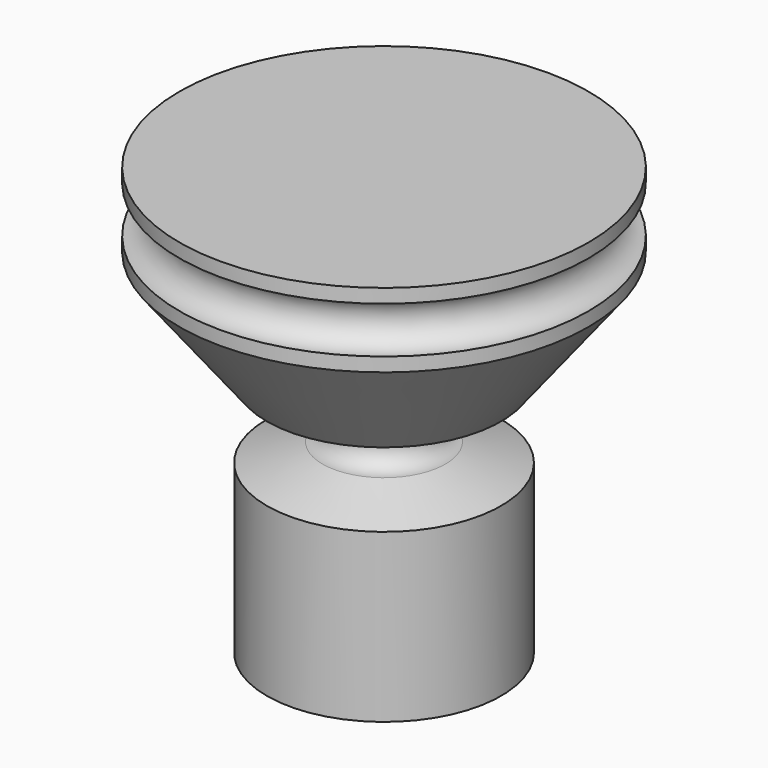
from build123d import *

# Parameters (mm, degrees)
F0_R     = 0.975
F2_DEPTH = 6.6
F3_R     = 0.975
F4_DEPTH = 6.6


with BuildPart() as f1:
    # F0 (on Front) → F1 (revolve)
    with BuildSketch(Plane.XZ):
        with BuildLine():
            Line((-6.3, 0), (-2.3, 0))
            Line((-2.3, 0), (-2.3, 8))
            Line((-2.3, 8), (0, 8))
            Line((0, 8), (0, 23))
            Line((0, 23), (-11, 23))
            Line((-11, 23), (-11, 22.25))
            ThreePointArc((-11, 22.25), (-9.75, 21), (-11, 19.75))
            Line((-11, 19.75), (-11, 19))
            Line((-11, 19), (-6.3, 13))
            Line((-6.3, 13), (-3.3, 12))
            ThreePointArc((-3.3, 12), (-2.3, 11), (-3.3, 10))
            Line((-3.3, 10), (-6.3, 9))
            Line((-6.3, 9), (-6.3, 0))
        make_face()
    revolve(axis=Axis((0, 0, 15.5), (0, 0, 1)))

    # F0 (on Front) → F2 (cut)
    with BuildSketch(Plane.XZ):
        with Locations((0, 4)):
            Circle(F0_R)
    extrude(amount=-F2_DEPTH, mode=Mode.SUBTRACT)

    # F3 (on Right) → F4 (cut)
    with BuildSketch(Plane.YZ):
        with Locations((0, 4)):
            Circle(F3_R)
    extrude(amount=-F4_DEPTH, mode=Mode.SUBTRACT)


solid = f1.part
